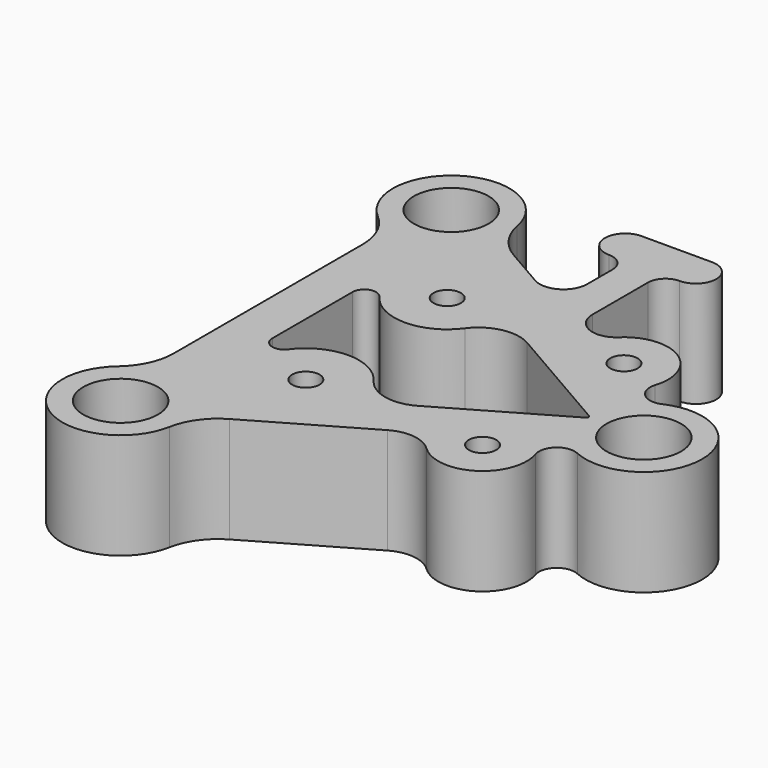
from build123d import *

# Parameters (mm, degrees)
F0_R     = 2.6
F0_R_2   = 1.55
F1_DEPTH = 12
F2_R     = 4.225
F3_DEPTH = 7
F5_DEPTH = 4


with BuildPart() as f1:
    # F0 (on Top) → F1 (new body)
    with BuildSketch(Plane.XY):
        with BuildLine():
            ThreePointArc((-30.82763, 20.107742), (-32.912276, 22.00702), (-34.013815, 24.603098))
            ThreePointArc((-34.013815, 24.603098), (-43.8, 29.098454), (-44.8, 18.375691))
            ThreePointArc((-44.8, 18.375691), (-43.102501, 16.123691), (-42.5, 13.368696))
            Line((-42.5, 13.368696), (-42.5, -13.368696))
            ThreePointArc((-42.5, -13.368696), (-43.102501, -16.123691), (-44.8, -18.375691))
            ThreePointArc((-44.8, -18.375691), (-43.8, -29.098454), (-34.013815, -24.603098))
            ThreePointArc((-34.013815, -24.603098), (-32.912276, -22.00702), (-30.82763, -20.107742))
            Line((-30.82763, -20.107742), (-18.561811, -13.026067))
            ThreePointArc((-18.561811, -13.026067), (-16.037247, -12.509627), (-13.707877, -13.611522))
            ThreePointArc((-13.707877, -13.611522), (-7.600624, -14.240378), (-5.487994, -8.475762))
            ThreePointArc((-5.487994, -8.475762), (-4.905969, -6.345122), (-2.722478, -6.01233))
            ThreePointArc((-2.722478, -6.01233), (6.6, 0), (-2.722478, 6.01233))
            ThreePointArc((-2.722478, 6.01233), (-4.905969, 6.345122), (-5.487994, 8.475762))
            ThreePointArc((-5.487994, 8.475762), (-7.600624, 14.240378), (-13.707877, 13.611522))
            ThreePointArc((-13.707877, 13.611522), (-16.619309, 13.081574), (-18.25, 15.551013))
            Line((-18.25, 15.551013), (-18.25, 23.382686))
            ThreePointArc((-18.25, 23.382686), (-17.664214, 24.796899), (-16.25, 25.382686))
            ThreePointArc((-16.25, 25.382686), (-13.95, 27.682686), (-16.25, 29.982686))
            Line((-16.25, 29.982686), (-24.25, 29.982686))
            ThreePointArc((-24.25, 29.982686), (-26.55, 27.682686), (-24.25, 25.382686))
            ThreePointArc((-24.25, 25.382686), (-22.835786, 24.796899), (-22.25, 23.382686))
            Line((-22.25, 23.382686), (-22.25, 19.80625))
            ThreePointArc((-22.25, 19.80625), (-23.592572, 17.480847), (-26.277716, 17.480847))
            Line((-26.277716, 17.480847), (-30.82763, 20.107742))
        make_face()
        with Locations((-40.5, -23.382686)):
            Circle(F0_R, mode=Mode.SUBTRACT)
        with Locations((-30.25, -10)):
            Circle(F0_R_2, mode=Mode.SUBTRACT)
        with BuildLine():
            ThreePointArc((-25.409667, 6.454415), (-22.637088, 8.243459), (-19.37854, 7.724104))
            Line((-19.37854, 7.724104), (-6.375, 0.216506))
            ThreePointArc((-6.375, 0.216506), (-6.25, 0), (-6.375, -0.216506))
            Line((-6.375, -0.216506), (-19.37854, -7.724104))
            ThreePointArc((-19.37854, -7.724104), (-22.637088, -8.243459), (-25.409667, -6.454415))
            ThreePointArc((-25.409667, -6.454415), (-30.25, -4), (-35.090333, -6.454415))
            ThreePointArc((-35.090333, -6.454415), (-36.580889, -6.933918), (-37.5, -5.666277))
            Line((-37.5, -5.666277), (-37.5, 5.666277))
            ThreePointArc((-37.5, 5.666277), (-36.580889, 6.933918), (-35.090333, 6.454415))
            ThreePointArc((-35.090333, 6.454415), (-30.25, 4), (-25.409667, 6.454415))
        make_face(mode=Mode.SUBTRACT)
        with Locations((-10.25, -10)):
            Circle(F0_R_2, mode=Mode.SUBTRACT)
        Circle(F0_R, mode=Mode.SUBTRACT)
        with Locations((-30.25, 10)):
            Circle(F0_R_2, mode=Mode.SUBTRACT)
        with Locations((-40.5, 23.382686)):
            Circle(F0_R, mode=Mode.SUBTRACT)
        with Locations((-10.25, 10)):
            Circle(F0_R_2, mode=Mode.SUBTRACT)
    extrude(amount=F1_DEPTH)

    # F2 (on face) → F3 (cut)
    with BuildSketch(Plane.XY.offset(12)):
        with Locations((-40.5, 23.382686)):
            Circle(F2_R)
        Circle(F2_R)
        with Locations((-40.5, -23.382686)):
            Circle(F2_R)
    extrude(amount=-F3_DEPTH, mode=Mode.SUBTRACT)

    # F4 (on face) → F5 (cut)
    with BuildSketch(Plane(origin=(0, 0, 0), x_dir=(1, 0, 0), z_dir=(0, 0, -1))):
        Polygon((-27.45, 8.383419), (-27.45, 11.616581), (-30.25, 13.233162), (-33.05, 11.616581), (-33.05, 8.383419), (-30.25, 6.766838), align=None)
        Polygon((-27.45, -11.616581), (-27.45, -8.383419), (-30.25, -6.766838), (-33.05, -8.383419), (-33.05, -11.616581), (-30.25, -13.233162), align=None)
        Polygon((-13.05, -8.383419), (-13.05, -11.616581), (-10.25, -13.233162), (-7.45, -11.616581), (-7.45, -8.383419), (-10.25, -6.766838), align=None)
        Polygon((-13.05, 11.616581), (-13.05, 8.383419), (-10.25, 6.766838), (-7.45, 8.383419), (-7.45, 11.616581), (-10.25, 13.233162), align=None)
    extrude(amount=-F5_DEPTH, mode=Mode.SUBTRACT)


solid = f1.part
